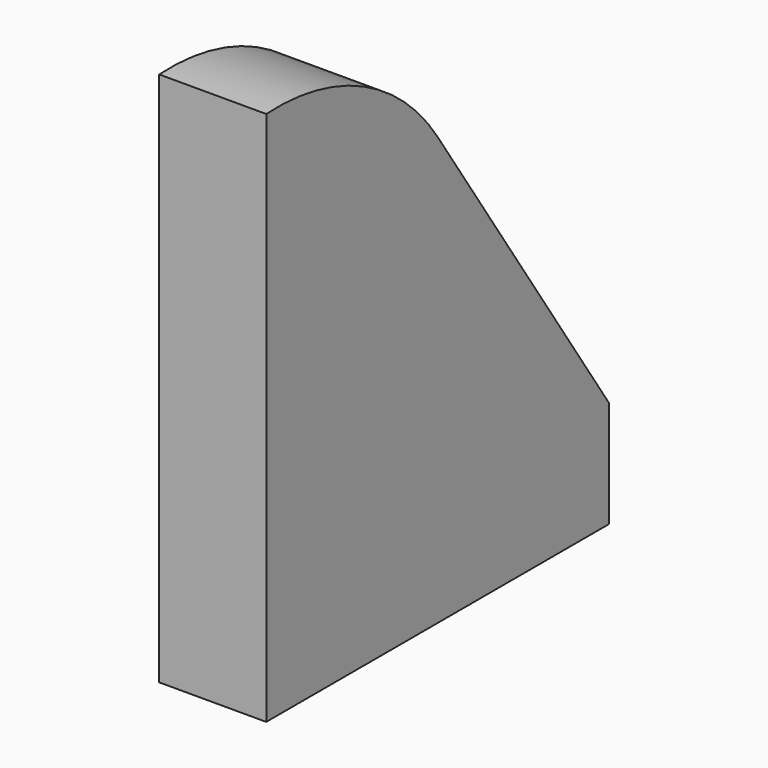
from build123d import *

# Parameters (mm, degrees)
F1_DEPTH = 6.35


with BuildPart() as f1:
    # F0 (on Right) → F1 (new body)
    with BuildSketch(Plane.YZ):
        with BuildLine():
            ThreePointArc((12.7, -6.35), (7.193167, -1.488666), (0, 0))
            Line((0, 0), (0, -31.75))
            Line((0, -31.75), (25.4, -31.75))
            Line((25.4, -31.75), (25.4, -25.4))
            Line((25.4, -25.4), (12.7, -6.35))
        make_face()
    extrude(amount=F1_DEPTH)


solid = f1.part
